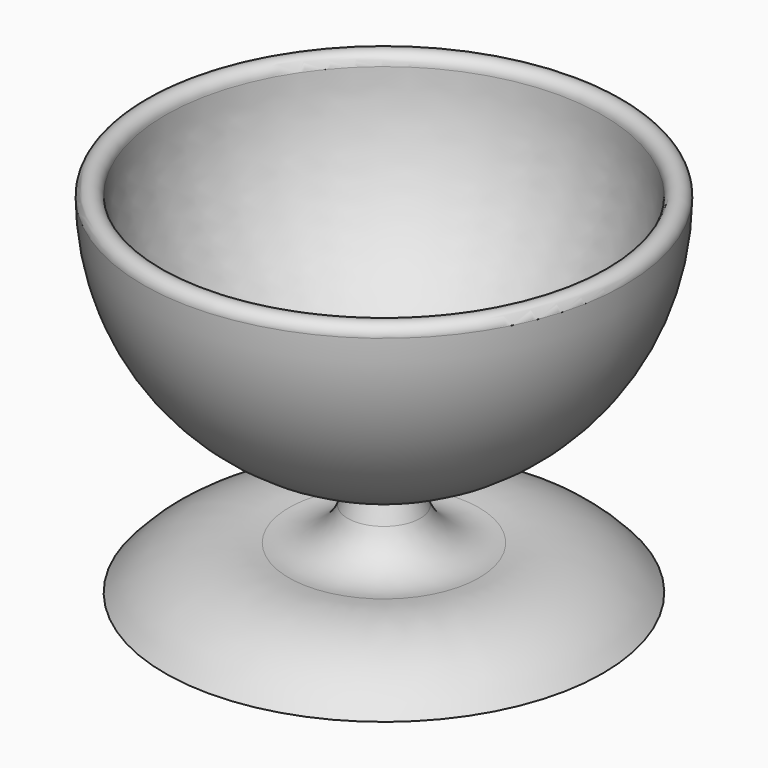
from build123d import *


with BuildPart() as part:
    # Sketch → Revolution (revolve)
    with BuildSketch(Plane.XZ):
        with BuildLine():
            Line((0, 0), (50, 0))
            ThreePointArc((50, 0), (37.19761, 8.789374), (21.715729, 10))
            ThreePointArc((8.285022, 17.589825), (13.61914, 11.350724), (21.715729, 10))
            Line((8.285022, 17.589825), (5.510228, 25))
            ThreePointArc((5.510228, 25), (40.792539, 42.83197), (55, 79.72328))
            ThreePointArc((55, 79.72328), (52.5, 82.22328), (50, 79.72328))
            ThreePointArc((0, 29.72328), (35.355339, 44.367941), (50, 79.72328))
            Line((0, 0), (0, 29.72328))
        make_face()
    revolve(axis=Axis((0, 0, 0), (0, 0, 1)))


solid = part.part
